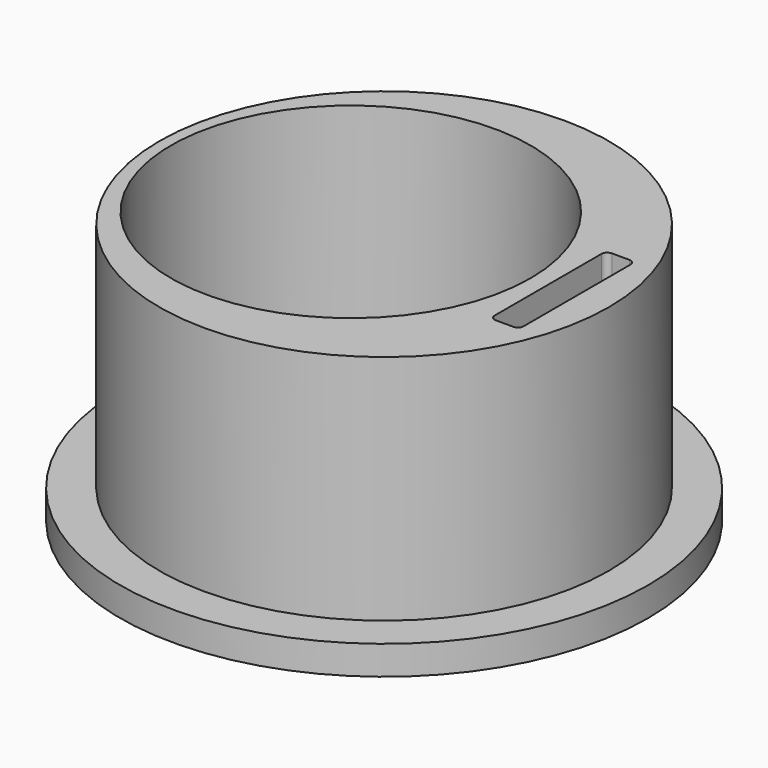
from build123d import *

# Parameters (mm, degrees)
F0_R     = 45.5
F0_R_2   = 38.75
F1_DEPTH = 5
F0_R_3   = 31
F2_DEPTH = 45


with BuildPart() as f1:
    # F0 (on Top) → F1 (new body)
    with BuildSketch(Plane.XY):
        Circle(F0_R)
        Circle(F0_R_2, mode=Mode.SUBTRACT)
    extrude(amount=F1_DEPTH)

    # F0 (on Top) → F2 (join)
    with BuildSketch(Plane.XY):
        Circle(F0_R_2)
        with Locations((-5.749998, 0.004193)):
            Circle(F0_R_3, mode=Mode.SUBTRACT)
        with BuildLine():
            ThreePointArc((33.258886, -11.5), (32.965992, -12.207107), (32.258886, -12.5))
            Line((32.258886, -12.5), (29.258886, -12.5))
            ThreePointArc((29.258886, -12.5), (28.551779, -12.207107), (28.258886, -11.5))
            Line((28.258886, -11.5), (28.258886, 11.5))
            ThreePointArc((28.258886, 11.5), (28.551779, 12.207107), (29.258886, 12.5))
            Line((29.258886, 12.5), (32.258886, 12.5))
            ThreePointArc((32.258886, 12.5), (32.965992, 12.207107), (33.258886, 11.5))
            Line((33.258886, 11.5), (33.258886, -11.5))
        make_face(mode=Mode.SUBTRACT)
    extrude(amount=F2_DEPTH)


solid = f1.part
